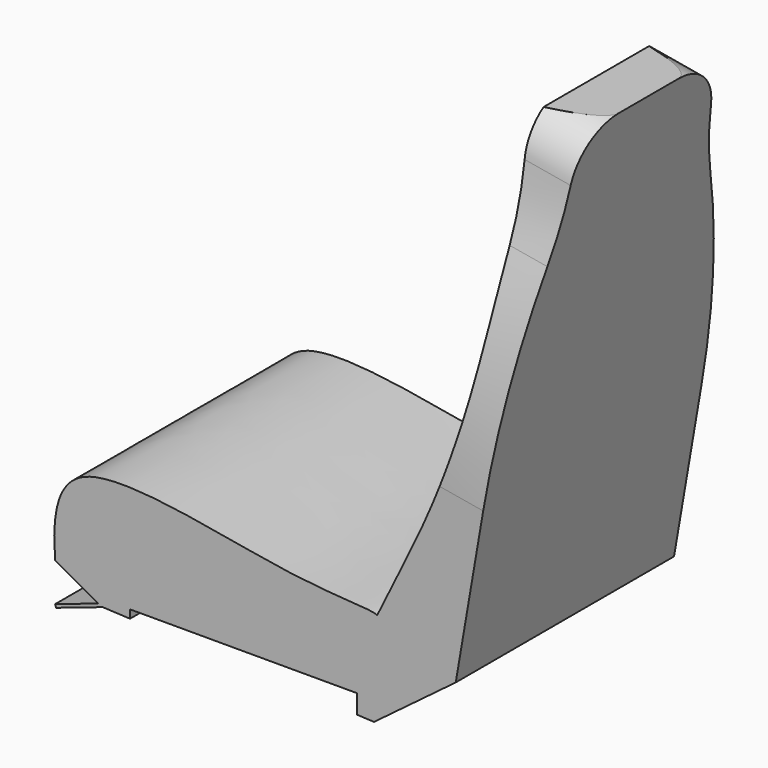
from build123d import *

# Parameters (mm, degrees)
F1_DEPTH = 457.2
F3_DEPTH = 801.4134901234
F5_DEPTH = 457.2010007


with BuildPart() as f1:
    # F0 (on Front) → F1 (new body)
    with BuildSketch(Plane.XZ):
        with BuildLine():
            Line((72.1953528447, 24.3776747791), (0, 0))
            Line((0, 0), (1.6650223942, -4.9310231731))
            Line((1.6650223942, -4.9310231731), (79.7350087536, 21.4302959768))
            Line((79.7350087536, 21.4302959768), (534.3410968781, 0))
            Line((534.3410968781, 0), (671.2495088577, 102.7298867702))
            Line((671.2495088577, 102.7298867702), (811.6683363914, 920.6699728966))
            Line((811.6683363914, 920.6699728966), (723.9065766335, 920.6699728966))
            add(Edge.make_bspline(
                [(539.437549965, 158.6699728966), (585.7215115369, 256.2591998048), (715.9314216301, 483.423683833), (718.7762170579, 812.4158484392), (723.9065766335, 920.6699728966)],
                knots=[0, 0, 0, 0, 0.4829237954, 1, 1, 1, 1], degree=3))
            add(Edge.make_bspline(
                [(0, 64.2480548378), (-1.0674535771, 81.5639641635), (-4.6642067148, 126.5442777853), (32.2297632664, 255.4594005166), (389.0875327927, 160.4925329149), (533.4, 165.1), (539.437549965, 158.6699728966)],
                knots=[0, 0, 0, 0, 0.1631919362, 0.3626127441, 0.7576485588, 1, 1, 1, 1], degree=3))
            Line((0, 64.2480548378), (72.1953528447, 24.3776747791))
        make_face()
    extrude(amount=F1_DEPTH)

    # F2 (on face) → F3 (cut, through all)
    with BuildSketch(Plane(origin=(634.9017438314, 0, -108.9959521242), x_dir=(0, 1, 0), z_dir=(0.9855819877, 0, -0.1691985385))):
        with BuildLine():
            ThreePointArc((-375.5267318941, 966.9000818866), (-348.5668963422, 1022.298693149), (-291.1846041679, 1044.7288382132))
            Line((-291.1846041679, 1044.7288382132), (-457.2, 1044.7288382132))
            Line((-457.2, 1044.7288382132), (-457.2, 486.6543970002))
            ThreePointArc((-457.2, 486.6543970002), (-442.6431884201, 669.9353069041), (-399.337754083, 848.620594646))
            ThreePointArc((-399.337754083, 848.620594646), (-383.9278993815, 907.0548735629), (-375.5267318941, 966.9000818866))
        make_face()
        with BuildLine():
            Line((0, 1044.7288382132), (-166.0153958321, 1044.7288382132))
            ThreePointArc((-166.0153958321, 1044.7288382132), (-108.6331036578, 1022.298693149), (-81.6732681059, 966.9000818866))
            ThreePointArc((-81.6732681059, 966.9000818866), (-73.2721006185, 907.0548735629), (-57.862245917, 848.620594646))
            ThreePointArc((-57.862245917, 848.620594646), (-14.5568115799, 669.9353069041), (0, 486.6543970002))
            Line((0, 486.6543970002), (0, 1044.7288382132))
        make_face()
    extrude(amount=-F3_DEPTH, mode=Mode.SUBTRACT)

    # F4 (on face) → F5 (cut, through all)
    with BuildSketch(Plane.XZ.offset(457.2)):
        Polygon((506.0118436813, 33.1242606044), (125.5606561899, 33.1242606044), (125.5606561899, 19.2700583259), (506.0118436813, 1.3354512768), align=None)
    extrude(amount=-F5_DEPTH, mode=Mode.SUBTRACT)


solid = f1.part
